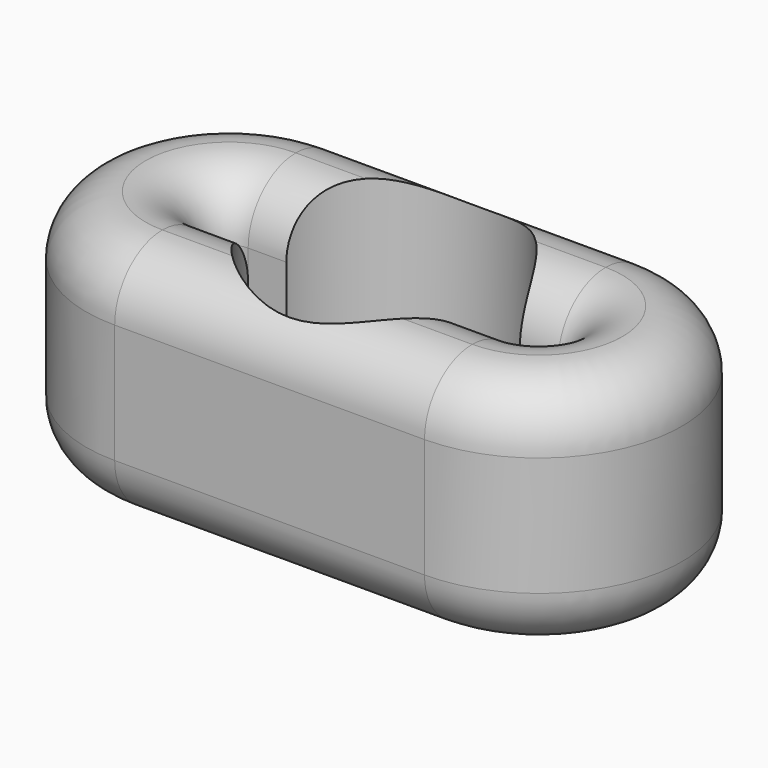
from build123d import *

# Parameters (mm, degrees)
PAD_DEPTH       = 0.5
POCKET_DEPTH    = 5
FILLET_R        = 0.2499
SKETCH002_R     = 0.5
POCKET001_DEPTH = 2.5


with BuildPart() as part:
    # Sketch (on XY_Plane of Origin) → Pad (new body, symmetric)
    with BuildSketch(Plane.XY):
        with BuildLine():
            ThreePointArc((-0.65, 0.6), (-1.25, 0), (-0.65, -0.6))
            Line((-0.65, -0.6), (0.65, -0.6))
            ThreePointArc((0.65, -0.6), (1.25, 0), (0.65, 0.6))
            Line((-0.65, 0.6), (0.65, 0.6))
        make_face()
    extrude(amount=PAD_DEPTH, both=True)

    # Sketch001 (on Face6 of Pad) → Pocket (cut)
    with BuildSketch(Plane.XY.offset(0.5)):
        with BuildLine():
            ThreePointArc((-0.65, 0.1), (-0.75, 0), (-0.65, -0.1))
            Line((-0.65, -0.1), (0.65, -0.1))
            ThreePointArc((0.65, -0.1), (0.75, 0), (0.65, 0.1))
            Line((-0.65, 0.1), (0.65, 0.1))
        make_face()
    extrude(amount=-POCKET_DEPTH, mode=Mode.SUBTRACT)

    # Fillet
    fillet_edges = [part.edges().sort_by_distance(p)[0] for p in [
        (0, -0.6, 0.5),
        (0, -0.1, 0.5),
        (0, -0.6, -0.5),
        (0, -0.1, -0.5),
    ]]
    fillet(fillet_edges, radius=FILLET_R)

    # Sketch002 (on XY_Plane of Origin) → Pocket001 (cut, symmetric)
    with BuildSketch(Plane.XY):
        Circle(SKETCH002_R)
    extrude(amount=POCKET001_DEPTH, both=True, mode=Mode.SUBTRACT)


solid = part.part
